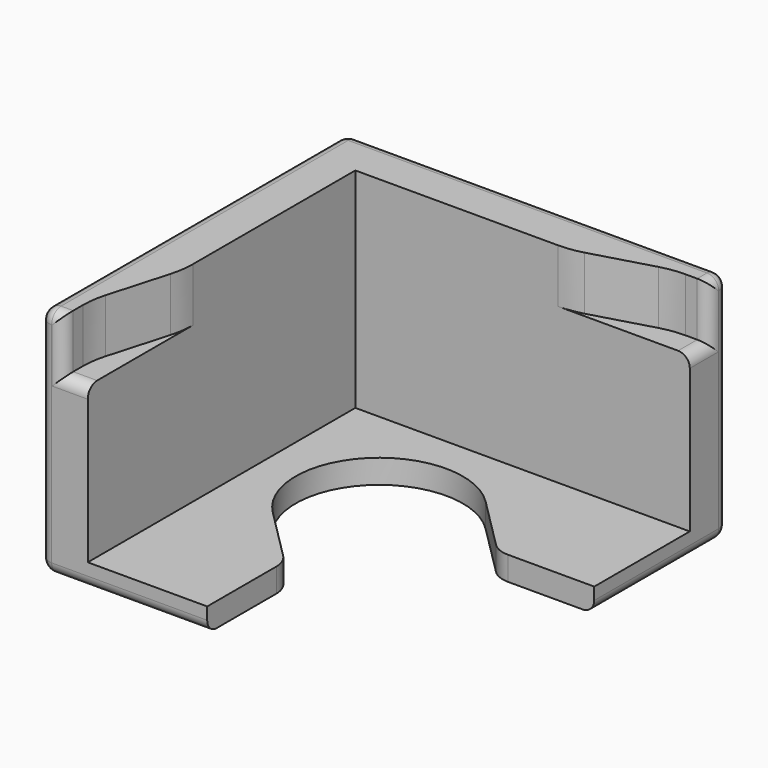
from build123d import *

# Parameters (mm, degrees)
PAD_DEPTH    = 1
PAD001_DEPTH = 9.75
PAD002_DEPTH = 7.5
FILLET_R     = 0.49


with BuildPart() as part:
    # Sketch → Pad (new body)
    with BuildSketch(Plane.XY):
        with BuildLine():
            Line((0, 0), (0, -16))
            Line((0, -16), (7, -16))
            Line((7, -12.382704), (7, -16))
            ThreePointArc((7, -12.382704), (6.920435, -11.982704), (6.693853, -11.643601))
            Line((4.525126, -9.474874), (6.693853, -11.643601))
            ThreePointArc((9.474875, -4.525127), (4.525127, -4.525126), (4.525126, -9.474874))
            Line((9.474875, -4.525127), (11.643599, -6.693853))
            ThreePointArc((11.643599, -6.693853), (11.982703, -6.920435), (12.382703, -7))
            Line((12.382703, -7), (16, -7))
            Line((16, 0), (16, -7))
            Line((0, 0), (16, 0))
        make_face()
    extrude(amount=PAD_DEPTH)

    # Sketch001 (on XY_Plane of Origin) → Pad001 (join)
    with BuildSketch(Plane.XY):
        with BuildLine():
            Line((0, 0), (16, 0))
            Line((16, 0), (16, -1))
            Line((16, -1), (15.009808, -1))
            ThreePointArc((15.009808, -1), (14.504928, -1.035184), (14.009808, -1.140055))
            Line((14.009808, -1.140055), (11.490192, -1.859945))
            ThreePointArc((10.490192, -2), (10.995072, -1.964816), (11.490192, -1.859945))
            Line((10.490192, -2), (2, -2))
            Line((2, -2), (2, -10.490192))
            ThreePointArc((1.859945, -11.490192), (1.964816, -10.995072), (2, -10.490192))
            Line((1.859945, -11.490192), (1.140055, -14.009808))
            ThreePointArc((1.140055, -14.009808), (1.035184, -14.504928), (1, -15.009808))
            Line((1, -15.009808), (1, -16))
            Line((1, -16), (0, -16))
            Line((0, 0), (0, -16))
        make_face()
    extrude(amount=PAD001_DEPTH)

    # Sketch002 (on XY_Plane of Origin) → Pad002 (join)
    with BuildSketch(Plane.XY):
        Polygon((16, -2), (16, 0), (0, 0), (0, -16), (2, -16), (2, -2), align=None)
    extrude(amount=PAD002_DEPTH)

    # Fillet
    fillet_edges = [part.edges().sort_by_distance(p)[0] for p in [
        (1.5, -16, 7.5),
        (1, -16, 8.625),
        (0, -16, 4.875),
        (0.5, -16, 9.75),
        (0, -8, 9.75),
        (8, 0, 9.75),
        (16, -1, 8.625),
        (16, -0.5, 9.75),
        (16, 0, 4.875),
        (16, -1.5, 7.5),
        (0, 0, 4.875),
        (3.5, -16, 0),
        (16, -3.5, 0),
        (8, 0, 0),
        (0, -8, 0),
    ]]
    fillet(fillet_edges, radius=FILLET_R)


solid = part.part
